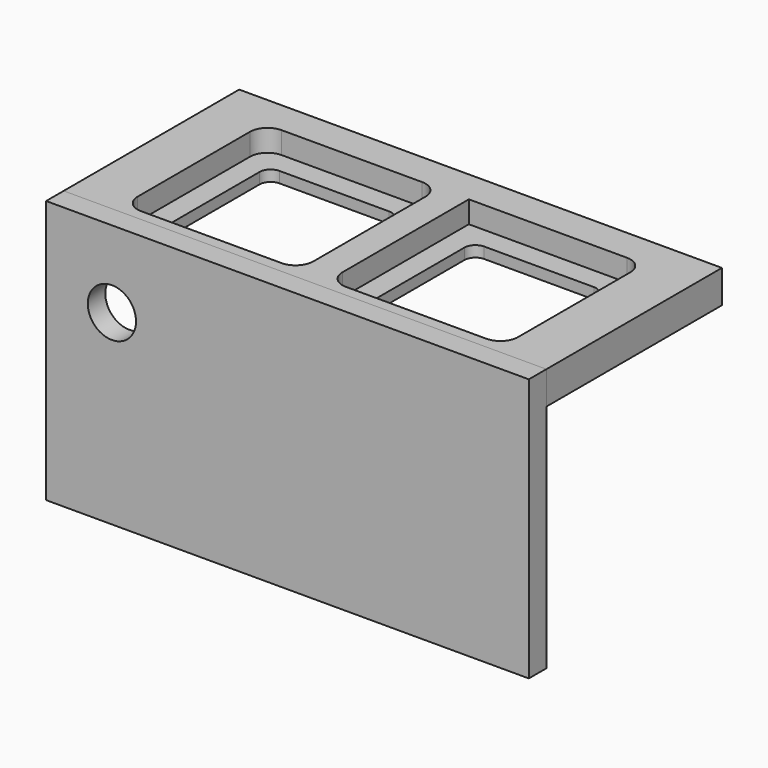
from build123d import *

# Parameters (mm, degrees)
F5_W      = 220
F5_H      = 110
F5_W_2    = 60
F5_H_2    = 60
F6_DEPTH  = 15
F7_R      = 5
F8_W      = 80
F8_H      = 80
F9_DEPTH  = 10
F10_R     = 8
F3_W      = 220
F3_H      = 120
F11_DEPTH = 10
F4_R      = 11
F12_DEPTH = 25


with BuildPart() as f6:
    # F5 (on offset) → F6 (new body)
    with BuildSketch(Plane.XY.offset(120)):
        with Locations((110, 55)):
            Rectangle(F5_W, F5_H)
        with Locations((63.333333, 55)):
            Rectangle(F5_W_2, F5_H_2, mode=Mode.SUBTRACT)
        with Locations((156.666667, 55)):
            Rectangle(F5_W_2, F5_H_2, mode=Mode.SUBTRACT)
    extrude(amount=-F6_DEPTH)

    # F7
    f7_edges = [f6.edges().sort_by_distance(p)[0] for p in [
        (93.333333, 85, 112.5),
        (186.666667, 85, 112.5),
        (33.333333, 85, 112.5),
        (33.333333, 25, 112.5),
        (93.333333, 25, 112.5),
        (186.666667, 25, 112.5),
        (126.666667, 25, 112.5),
        (126.666667, 85, 112.5),
    ]]
    fillet(f7_edges, radius=F7_R)

    # F8 (on offset) → F9 (cut)
    with BuildSketch(Plane.XY.offset(120)):
        with Locations((63.333333, 55)):
            Rectangle(F8_W, F8_H)
        with Locations((156.666667, 55)):
            Rectangle(F8_W, F8_H)
    extrude(amount=-F9_DEPTH, mode=Mode.SUBTRACT)

    # F10
    f10_edges = [f6.edges().sort_by_distance(p)[0] for p in [
        (103.333333, 95, 115),
        (196.666667, 95, 115),
        (23.333333, 95, 115),
        (23.333333, 15, 115),
        (103.333333, 15, 115),
        (196.666667, 15, 115),
        (116.666667, 15, 115),
    ]]
    fillet(f10_edges, radius=F10_R)


with BuildPart() as f11:
    # F3 (on Front) → F11 (new body)
    with BuildSketch(Plane.XZ):
        with Locations((110, 60)):
            Rectangle(F3_W, F3_H)
    extrude(amount=-F11_DEPTH)

    # F4 (on Front) → F12 (cut)
    with BuildSketch(Plane.XZ):
        with Locations((30, 85)):
            Circle(F4_R)
    extrude(amount=-F12_DEPTH, mode=Mode.SUBTRACT)


solid = Compound([f6.part, f11.part])
